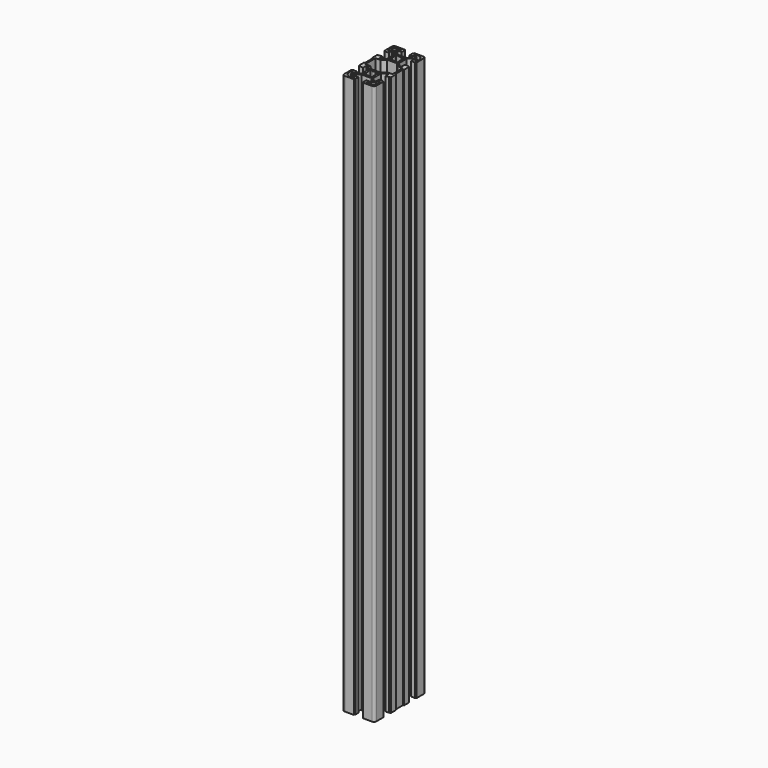
from build123d import *

# Parameters (mm, degrees)
F1_DEPTH = 700


with BuildPart() as f1:
    # F0 (on Top) → F1 (new body)
    with BuildSketch(Plane.XY):
        with BuildLine():
            ThreePointArc((-16.669192, 40.275085), (-18.790512, 39.396405), (-19.669192, 37.275085))
            Line((-19.669192, 37.275085), (-19.669192, 26.183498))
            Line((-19.669192, 26.183498), (-18.169192, 26.183498))
            Line((-18.169192, 26.183498), (-18.169192, 25.383498))
            Line((-18.169192, 25.383498), (-13.669192, 25.383498))
            Line((-13.669192, 25.383498), (-13.669192, 30.433498))
            Line((-13.669192, 30.433498), (-11.133405, 30.433498))
            Line((-11.133405, 30.433498), (-7.169192, 26.469284))
            Line((-7.169192, 26.469284), (-7.169192, 14.297711))
            Line((-7.169192, 14.297711), (-11.133405, 10.333498))
            Line((-11.133405, 10.333498), (-13.669192, 10.333498))
            Line((-13.669192, 10.333498), (-13.669192, 15.383498))
            Line((-13.669192, 15.383498), (-18.169192, 15.383498))
            Line((-18.169192, 15.383498), (-18.169192, 14.583498))
            Line((-18.169192, 14.583498), (-19.669192, 14.583498))
            Line((-19.669192, 14.583498), (-19.669192, 6.383498))
            Line((-19.669192, 6.383498), (-18.669192, 6.383498))
            Line((-18.669192, 6.383498), (-18.669192, -5.833328))
            Line((-18.669192, -5.833328), (-19.669192, -5.833328))
            Line((-19.669192, -5.833328), (-19.669192, -14.033328))
            Line((-19.669192, -14.033328), (-18.169192, -14.033328))
            Line((-18.169192, -14.033328), (-18.169192, -14.833328))
            Line((-18.169192, -14.833328), (-13.669192, -14.833328))
            Line((-13.669192, -14.833328), (-13.669192, -9.783328))
            Line((-13.669192, -9.783328), (-11.133405, -9.783328))
            Line((-11.133405, -9.783328), (-7.169192, -13.747541))
            Line((-7.169192, -13.747541), (-7.169192, -25.919114))
            Line((-7.169192, -25.919114), (-11.133405, -29.883328))
            Line((-11.133405, -29.883328), (-13.669192, -29.883328))
            Line((-13.669192, -29.883328), (-13.669192, -24.833328))
            Line((-13.669192, -24.833328), (-18.169192, -24.833328))
            Line((-18.169192, -24.833328), (-18.169192, -25.633328))
            Line((-18.169192, -25.633328), (-19.669192, -25.633328))
            Line((-19.669192, -25.633328), (-19.669192, -36.724915))
            ThreePointArc((-19.669192, -36.724915), (-18.790512, -38.846235), (-16.669192, -39.724915))
            Line((-16.669192, -39.724915), (-5.469192, -39.724915))
            Line((-5.469192, -39.724915), (-5.469192, -38.224915))
            Line((-5.469192, -38.224915), (-4.669192, -38.224915))
            Line((-4.669192, -38.224915), (-4.669192, -33.724915))
            Line((-4.669192, -33.724915), (-9.719192, -33.724915))
            Line((-9.719192, -33.724915), (-9.719192, -31.189129))
            Line((-9.719192, -31.189129), (-5.754978, -27.224915))
            Line((-5.754978, -27.224915), (6.416595, -27.224915))
            Line((6.416595, -27.224915), (10.380808, -31.189129))
            Line((10.380808, -31.189129), (10.380808, -33.724915))
            Line((10.380808, -33.724915), (5.330808, -33.724915))
            Line((5.330808, -33.724915), (5.330808, -38.224915))
            Line((5.330808, -38.224915), (6.130808, -38.224915))
            Line((6.130808, -38.224915), (6.130808, -39.724915))
            Line((6.130808, -39.724915), (17.330808, -39.724915))
            ThreePointArc((17.330808, -39.724915), (19.452128, -38.846235), (20.330808, -36.724915))
            Line((20.330808, -36.724915), (20.330808, -25.633328))
            Line((20.330808, -25.633328), (18.830808, -25.633328))
            Line((18.830808, -25.633328), (18.830808, -24.833328))
            Line((18.830808, -24.833328), (14.330808, -24.833328))
            Line((14.330808, -24.833328), (14.330808, -29.883328))
            Line((14.330808, -29.883328), (11.795022, -29.883328))
            Line((11.795022, -29.883328), (7.830808, -25.919114))
            Line((7.830808, -25.919114), (7.830808, -13.747541))
            Line((7.830808, -13.747541), (11.795022, -9.783328))
            Line((11.795022, -9.783328), (14.330808, -9.783328))
            Line((14.330808, -9.783328), (14.330808, -14.833328))
            Line((14.330808, -14.833328), (18.830808, -14.833328))
            Line((18.830808, -14.833328), (18.830808, -14.033328))
            Line((18.830808, -14.033328), (20.330808, -14.033328))
            Line((20.330808, -14.033328), (20.330808, -5.833328))
            Line((20.330808, -5.833328), (19.330808, -5.833328))
            Line((19.330808, -5.833328), (19.330808, 6.383498))
            Line((19.330808, 6.383498), (20.330808, 6.383498))
            Line((20.330808, 6.383498), (20.330808, 14.583498))
            Line((20.330808, 14.583498), (18.830808, 14.583498))
            Line((18.830808, 14.583498), (18.830808, 15.383498))
            Line((18.830808, 15.383498), (14.330808, 15.383498))
            Line((14.330808, 15.383498), (14.330808, 10.333498))
            Line((14.330808, 10.333498), (11.795022, 10.333498))
            Line((11.795022, 10.333498), (7.830808, 14.297711))
            Line((7.830808, 14.297711), (7.830808, 26.469284))
            Line((7.830808, 26.469284), (11.795022, 30.433498))
            Line((11.795022, 30.433498), (14.330808, 30.433498))
            Line((14.330808, 30.433498), (14.330808, 25.383498))
            Line((14.330808, 25.383498), (18.830808, 25.383498))
            Line((18.830808, 25.383498), (18.830808, 26.183498))
            Line((18.830808, 26.183498), (20.330808, 26.183498))
            Line((20.330808, 26.183498), (20.330808, 37.275085))
            ThreePointArc((20.330808, 37.275085), (19.452128, 39.396405), (17.330808, 40.275085))
            Line((17.330808, 40.275085), (6.130808, 40.275085))
            Line((6.130808, 40.275085), (6.130808, 38.775085))
            Line((6.130808, 38.775085), (5.330808, 38.775085))
            Line((5.330808, 38.775085), (5.330808, 34.275085))
            Line((5.330808, 34.275085), (10.380808, 34.275085))
            Line((10.380808, 34.275085), (10.380808, 31.739299))
            Line((10.380808, 31.739299), (6.416595, 27.775085))
            Line((6.416595, 27.775085), (-5.754978, 27.775085))
            Line((-5.754978, 27.775085), (-9.719192, 31.739299))
            Line((-9.719192, 31.739299), (-9.719192, 34.275085))
            Line((-9.719192, 34.275085), (-4.669192, 34.275085))
            Line((-4.669192, 34.275085), (-4.669192, 38.775085))
            Line((-4.669192, 38.775085), (-5.469192, 38.775085))
            Line((-5.469192, 38.775085), (-5.469192, 40.275085))
            Line((-5.469192, 40.275085), (-16.669192, 40.275085))
        make_face()
        with BuildLine():
            ThreePointArc((-15.169192, -31.77159), (-12.617983, -32.06259), (-11.419192, -34.333328))
            Line((-11.419192, -34.333328), (-11.419192, -35.333328))
            Line((-11.419192, -35.333328), (-9.169192, -35.333328))
            ThreePointArc((-9.169192, -35.333328), (-7.669192, -36.833328), (-9.169192, -38.333328))
            Line((-9.169192, -38.333328), (-14.169192, -38.333328))
            Line((-14.169192, -38.333328), (-14.169192, -37.083328))
            ThreePointArc((-14.169192, -37.083328), (-16.113736, -36.277871), (-16.919192, -34.333328))
            Line((-16.919192, -34.333328), (-18.169192, -34.333328))
            Line((-18.169192, -34.333328), (-18.169192, -29.333328))
            ThreePointArc((-18.169192, -29.333328), (-16.669192, -27.833328), (-15.169192, -29.333328))
            Line((-15.169192, -29.333328), (-15.169192, -31.77159))
        make_face(mode=Mode.SUBTRACT)
        with BuildLine():
            Line((-2.067108, -14.333328), (-1.667455, -15.249994))
            ThreePointArc((-1.667455, -15.249994), (0.330808, -14.833328), (2.329071, -15.249994))
            Line((2.329071, -15.249994), (2.728724, -14.333328))
            Line((2.728724, -14.333328), (5.830808, -14.333328))
            Line((5.830808, -14.333328), (5.830808, -17.435412))
            Line((5.830808, -17.435412), (4.914141, -17.835065))
            ThreePointArc((4.914141, -17.835065), (5.330808, -19.833328), (4.914141, -21.831591))
            Line((4.914141, -21.831591), (5.830808, -22.231243))
            Line((5.830808, -22.231243), (5.830808, -25.333328))
            Line((5.830808, -25.333328), (2.728724, -25.333328))
            Line((2.728724, -25.333328), (2.329071, -24.416661))
            ThreePointArc((2.329071, -24.416661), (0.330808, -24.833328), (-1.667455, -24.416661))
            Line((-1.667455, -24.416661), (-2.067108, -25.333328))
            Line((-2.067108, -25.333328), (-5.169192, -25.333328))
            Line((-5.169192, -25.333328), (-5.169192, -22.231243))
            Line((-5.169192, -22.231243), (-4.252525, -21.831591))
            ThreePointArc((-4.252525, -21.831591), (-4.669192, -19.833328), (-4.252525, -17.835065))
            Line((-4.252525, -17.835065), (-5.169192, -17.435412))
            Line((-5.169192, -17.435412), (-5.169192, -14.333328))
            Line((-5.169192, -14.333328), (-2.067108, -14.333328))
        make_face(mode=Mode.SUBTRACT)
        with BuildLine():
            ThreePointArc((17.580808, -34.333328), (16.775352, -36.277871), (14.830808, -37.083328))
            Line((14.830808, -37.083328), (14.830808, -38.333328))
            Line((14.830808, -38.333328), (9.830808, -38.333328))
            ThreePointArc((9.830808, -38.333328), (8.330808, -36.833328), (9.830808, -35.333328))
            Line((9.830808, -35.333328), (12.26907, -35.333328))
            ThreePointArc((12.26907, -35.333328), (12.886264, -32.388784), (15.830808, -31.77159))
            Line((15.830808, -31.77159), (15.830808, -29.333328))
            ThreePointArc((15.830808, -29.333328), (17.330808, -27.833328), (18.830808, -29.333328))
            Line((18.830808, -29.333328), (18.830808, -34.333328))
            Line((18.830808, -34.333328), (17.580808, -34.333328))
        make_face(mode=Mode.SUBTRACT)
        Polygon((-16.669192, -7.783328), (-16.669192, 8.333498), (-10.304978, 8.333498), (-5.754978, 12.883498), (6.416595, 12.883498), (10.966595, 8.333498), (17.330808, 8.333498), (17.330808, -7.783328), (10.966595, -7.783328), (6.416595, -12.333328), (-5.754978, -12.333328), (-10.304978, -7.783328), align=None, mode=Mode.SUBTRACT)
        with BuildLine():
            ThreePointArc((-16.919192, 34.883498), (-16.113736, 36.828041), (-14.169192, 37.633498))
            Line((-14.169192, 37.633498), (-14.169192, 38.883498))
            Line((-14.169192, 38.883498), (-9.169192, 38.883498))
            ThreePointArc((-9.169192, 38.883498), (-7.669192, 37.383498), (-9.169192, 35.883498))
            Line((-9.169192, 35.883498), (-11.419192, 35.883498))
            Line((-11.419192, 35.883498), (-11.607454, 35.883498))
            ThreePointArc((-11.607454, 35.883498), (-12.224648, 32.938954), (-15.169192, 32.32176))
            Line((-15.169192, 32.32176), (-15.169192, 32.133498))
            Line((-15.169192, 32.133498), (-15.169192, 29.883498))
            ThreePointArc((-15.169192, 29.883498), (-16.669192, 28.383498), (-18.169192, 29.883498))
            Line((-18.169192, 29.883498), (-18.169192, 34.883498))
            Line((-18.169192, 34.883498), (-16.919192, 34.883498))
        make_face(mode=Mode.SUBTRACT)
        with BuildLine():
            ThreePointArc((-4.252525, 18.385235), (-4.669192, 20.383498), (-4.252525, 22.381761))
            Line((-4.252525, 22.381761), (-5.169192, 22.781413))
            Line((-5.169192, 22.781413), (-5.169192, 25.883498))
            Line((-5.169192, 25.883498), (-2.067108, 25.883498))
            Line((-2.067108, 25.883498), (-1.667455, 24.966831))
            ThreePointArc((-1.667455, 24.966831), (0.330808, 25.383498), (2.329071, 24.966831))
            Line((2.329071, 24.966831), (2.728724, 25.883498))
            Line((2.728724, 25.883498), (5.830808, 25.883498))
            Line((5.830808, 25.883498), (5.830808, 22.781413))
            Line((5.830808, 22.781413), (4.914141, 22.381761))
            ThreePointArc((4.914141, 22.381761), (5.330808, 20.383498), (4.914141, 18.385235))
            Line((4.914141, 18.385235), (5.830808, 17.985582))
            Line((5.830808, 17.985582), (5.830808, 14.883498))
            Line((5.830808, 14.883498), (2.728724, 14.883498))
            Line((2.728724, 14.883498), (2.329071, 15.800164))
            ThreePointArc((2.329071, 15.800164), (0.330808, 15.383498), (-1.667455, 15.800164))
            Line((-1.667455, 15.800164), (-2.067108, 14.883498))
            Line((-2.067108, 14.883498), (-5.169192, 14.883498))
            Line((-5.169192, 14.883498), (-5.169192, 17.985582))
            Line((-5.169192, 17.985582), (-4.252525, 18.385235))
        make_face(mode=Mode.SUBTRACT)
        with BuildLine():
            ThreePointArc((9.830808, 35.883498), (8.330808, 37.383498), (9.830808, 38.883498))
            Line((9.830808, 38.883498), (14.830808, 38.883498))
            Line((14.830808, 38.883498), (14.830808, 37.633498))
            ThreePointArc((14.830808, 37.633498), (16.775352, 36.828041), (17.580808, 34.883498))
            Line((17.580808, 34.883498), (18.830808, 34.883498))
            Line((18.830808, 34.883498), (18.830808, 29.883498))
            ThreePointArc((18.830808, 29.883498), (17.330808, 28.383498), (15.830808, 29.883498))
            Line((15.830808, 29.883498), (15.830808, 32.32176))
            ThreePointArc((15.830808, 32.32176), (12.886264, 32.938954), (12.26907, 35.883498))
            Line((12.26907, 35.883498), (9.830808, 35.883498))
        make_face(mode=Mode.SUBTRACT)
    extrude(amount=F1_DEPTH)


solid = f1.part
